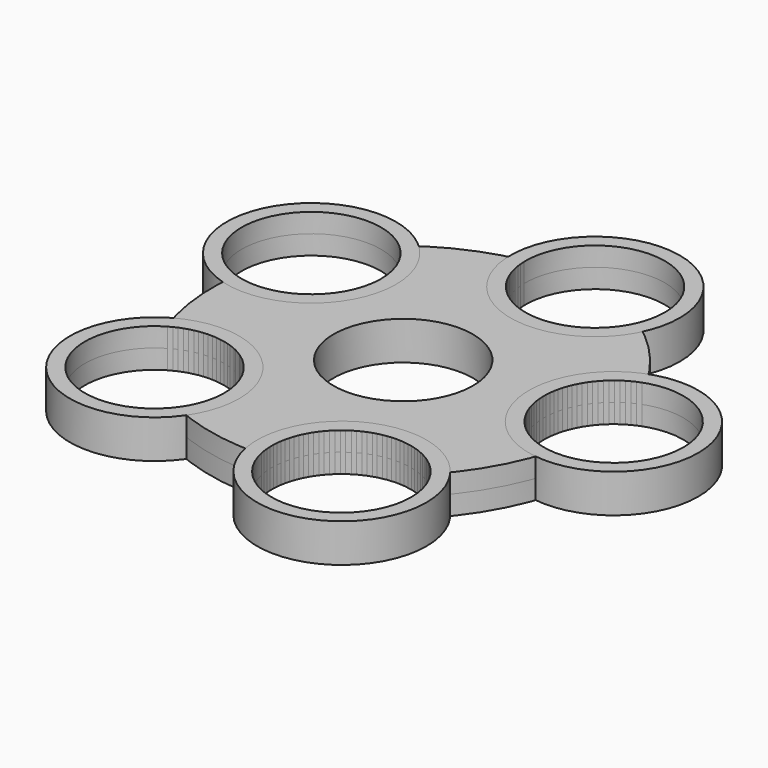
from build123d import *

# Parameters (mm, degrees)
F3_DEPTH = 3.175
F2_R     = 13.97
F0_R     = 11.5
F4_DEPTH = 3.175


with BuildPart() as f3:
    # F1 (on Top) → F3 (new body, symmetric)
    with BuildSketch(Plane.XY):
        with BuildLine():
            add(Edge.make_bspline(
                [(-27.873260784, 15.9037485054), (-21.3244938042, 27.3717698023), (8.4685993161, 40.8191929902), (41.457301605, 4.5953850008), (17.1322852663, -38.2682187447), (-30.824072945, -27.9845963151), (-34.4215522774, 4.4365598673), (-27.873260784, 15.9037485054)],
                knots=[0, 0, 0, 0, 0.1999224711, 0.3998324305, 0.6001846065, 0.8000920447, 1, 1, 1, 1], degree=3))
        make_face()
    extrude(amount=F3_DEPTH, both=True)


with BuildPart() as f3b:
    # F2 (on Top) → F3, piece 2 (new body, symmetric)
    with BuildSketch(Plane.XY):
        with Locations((-23.7389784306, -21.5934924781)):
            Circle(F2_R)
    extrude(amount=F3_DEPTH, both=True)


with BuildPart() as f3c:
    # F2 (on Top) → F3, piece 3 (new body, symmetric)
    with BuildSketch(Plane.XY):
        with Locations((13.1979174912, -29.1526708752)):
            Circle(F2_R)
    extrude(amount=F3_DEPTH, both=True)


with BuildPart() as f3d:
    # F2 (on Top) → F3, piece 4 (new body, symmetric)
    with BuildSketch(Plane.XY):
        with Locations((-27.873320505, 15.9039217979)):
            Circle(F2_R)
    extrude(amount=F3_DEPTH, both=True)


with BuildPart() as f3e:
    # F2 (on Top) → F3, piece 5 (new body, symmetric)
    with BuildSketch(Plane.XY):
        with Locations((6.5133511089, 31.4274802804)):
            Circle(F2_R)
    extrude(amount=F3_DEPTH, both=True)


with BuildPart() as f3f:
    # F2 (on Top) → F3, piece 6 (new body, symmetric)
    with BuildSketch(Plane.XY):
        with Locations((31.8990834057, 3.5189150367)):
            Circle(F2_R)
    extrude(amount=F3_DEPTH, both=True)


with BuildPart() as f4_tool:
    # F0 (on Top) → F4 (new body, symmetric)
    with BuildSketch(Plane.XY):
        with Locations((6.5123755613, 31.4234405064)):
            Circle(F0_R)
        with Locations((31.8979025802, 3.5167399241)):
            Circle(F0_R)
        with Locations((13.2016124031, -29.2499757037)):
            Circle(F0_R)
        with Locations((-23.7388574088, -21.5942190791)):
            Circle(F0_R)
        with Locations((-27.8730331358, 15.9040143523)):
            Circle(F0_R)
        Circle(F0_R)
    extrude(amount=F4_DEPTH, both=True)


with BuildPart() as f3_1:
    add(f3.part)

    # F4: cut by f4_tool
    add(f4_tool.part, mode=Mode.SUBTRACT)


with BuildPart() as f3b_1:
    add(f3b.part)

    # F4: cut by f4_tool
    add(f4_tool.part, mode=Mode.SUBTRACT)


with BuildPart() as f3c_1:
    add(f3c.part)

    # F4: cut by f4_tool
    add(f4_tool.part, mode=Mode.SUBTRACT)


with BuildPart() as f3d_1:
    add(f3d.part)

    # F4: cut by f4_tool
    add(f4_tool.part, mode=Mode.SUBTRACT)


with BuildPart() as f3e_1:
    add(f3e.part)

    # F4: cut by f4_tool
    add(f4_tool.part, mode=Mode.SUBTRACT)


with BuildPart() as f3f_1:
    add(f3f.part)

    # F4: cut by f4_tool
    add(f4_tool.part, mode=Mode.SUBTRACT)


solid = Compound([f3_1.part, f3b_1.part, f3c_1.part, f3d_1.part, f3e_1.part, f3f_1.part])
